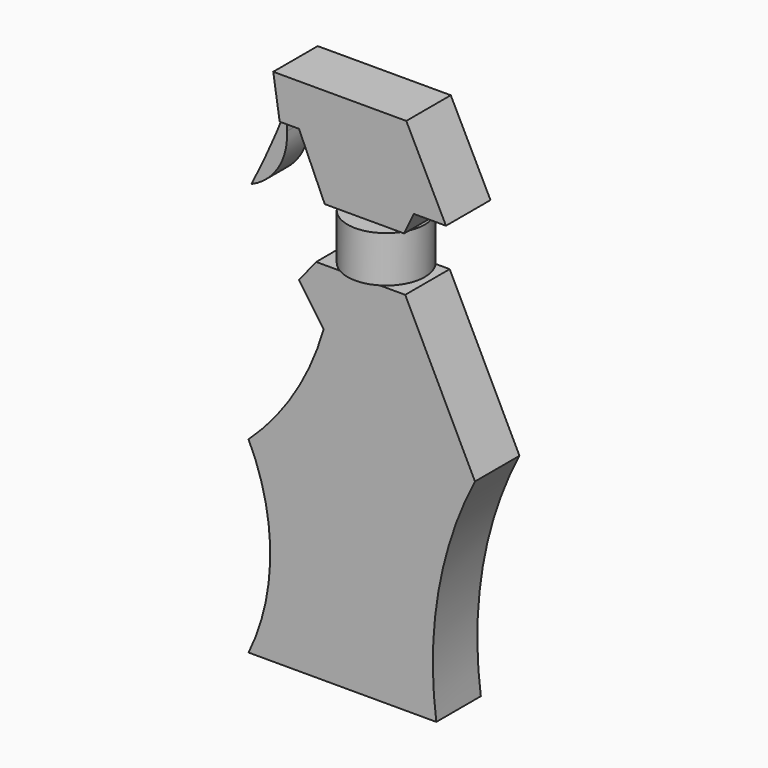
from build123d import *

# Parameters (mm, degrees)
F1_DEPTH = 12.7
F6_DEPTH = 12.7
F8_DEPTH = 6.35


with BuildPart() as f1:
    # F0 (on Front) → F1 (new body)
    with BuildSketch(Plane.XZ):
        with BuildLine():
            ThreePointArc((-23.035038, -4.288438), (-18.087159, -25.730626), (-23.035038, -47.172815))
            Line((-23.035038, -47.172815), (19.84934, -47.172815))
            ThreePointArc((19.84934, -47.172815), (20.304754, -20.883375), (28.671274, 4.043384))
            Line((28.671274, 4.043384), (12.742787, 36.390461))
            Line((12.742787, 36.390461), (-7.596662, 36.390461))
            Line((-7.596662, 36.390461), (-11.51752, 31.489387))
            Line((-11.51752, 31.489387), (-5.881287, 23.40262))
            ThreePointArc((-5.881287, 23.40262), (-12.561075, 8.381904), (-23.035038, -4.288438))
        make_face()
    extrude(amount=F1_DEPTH)


with BuildPart() as f3:
    # F2 (on Front) → F3 (revolve)
    with BuildSketch(Plane.XZ):
        Polygon((11.762574, 49.378302), (2.940641, 49.378302), (2.940641, 38.105834), (11.762574, 38.840994), align=None)
    revolve(axis=Axis((2.940641, 0, 43.742068), (0, 0, 1)))


with BuildPart() as f3_1:
    # F4: moved
    add(f3.part.moved(Location((0, -5.88129, -1.96043))))


with BuildPart() as f6:
    # F5 (on Front) → F6 (new body)
    with BuildSketch(Plane.XZ):
        Polygon((-17.398806, 71.433127), (-15.928484, 61.876036), (-11.517519, 61.876036), (-5.636232, 48.643142), (12.497734, 48.643142), (14.703215, 53.299155), (22.054821, 53.299155), (12.987841, 71.433127), align=None)
    extrude(amount=F6_DEPTH)


with BuildPart() as f8:
    # F7 (on Front) → F8 (new body)
    with BuildSketch(Plane.XZ):
        with BuildLine():
            ThreePointArc((-19.359235, 61.140876), (-23.163006, 51.967038), (-27.446004, 43.006908))
            ThreePointArc((-27.446004, 43.006908), (-21.293081, 48.334193), (-19.359235, 56.239802))
            Line((-19.359235, 56.239802), (-19.359235, 61.140876))
        make_face()
    extrude(amount=F8_DEPTH)


solid = Compound([f1.part, f3_1.part, f6.part, f8.part])
